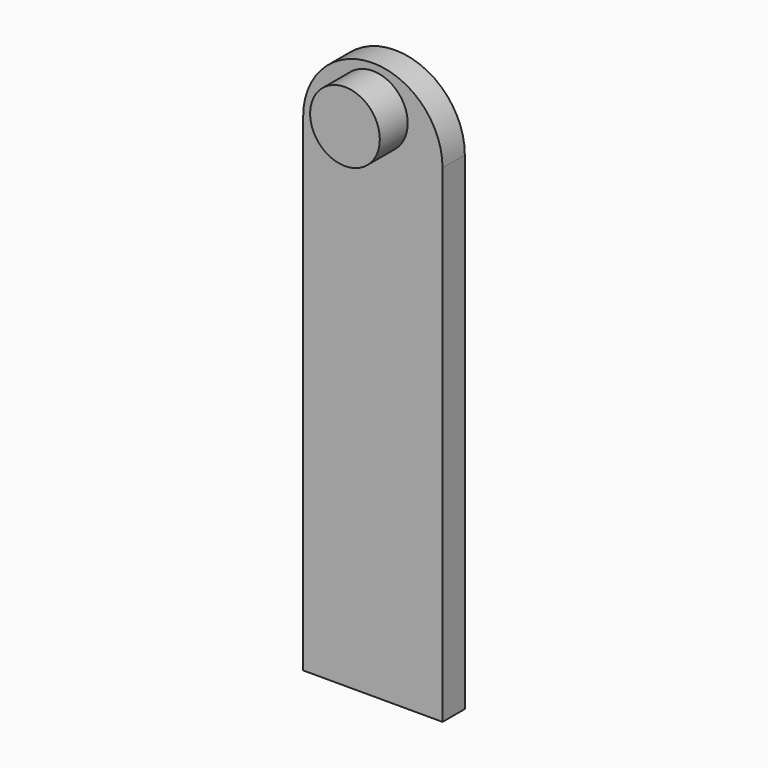
from build123d import *

# Parameters (mm, degrees)
F0_W     = 20
F0_H     = 4
F1_DEPTH = 70
F3_DEPTH = 2
F4_R     = 5
F5_DEPTH = 25
F6_R     = 5
F7_DEPTH = 7


with BuildPart() as f1:
    # F0 (on Top) → F1 (new body)
    with BuildSketch(Plane.XY):
        Rectangle(F0_W, F0_H)
    extrude(amount=F1_DEPTH)

    # F2 (on Front) → F3 (join, symmetric)
    with BuildSketch(Plane.XZ):
        with BuildLine():
            Line((-10, 70), (10, 70))
            ThreePointArc((10, 70), (0, 80), (-10, 70))
        make_face()
    extrude(amount=F3_DEPTH, both=True)

    # F4 (on Front) → F5 (cut)
    with BuildSketch(Plane.XZ):
        with Locations((0, 74)):
            Circle(F4_R)
    extrude(amount=F5_DEPTH, mode=Mode.SUBTRACT)

    # F6 (on face) → F7 (join)
    with BuildSketch(Plane.XZ):
        with Locations((0, 74)):
            Circle(F6_R)
    extrude(amount=F7_DEPTH)


solid = f1.part
